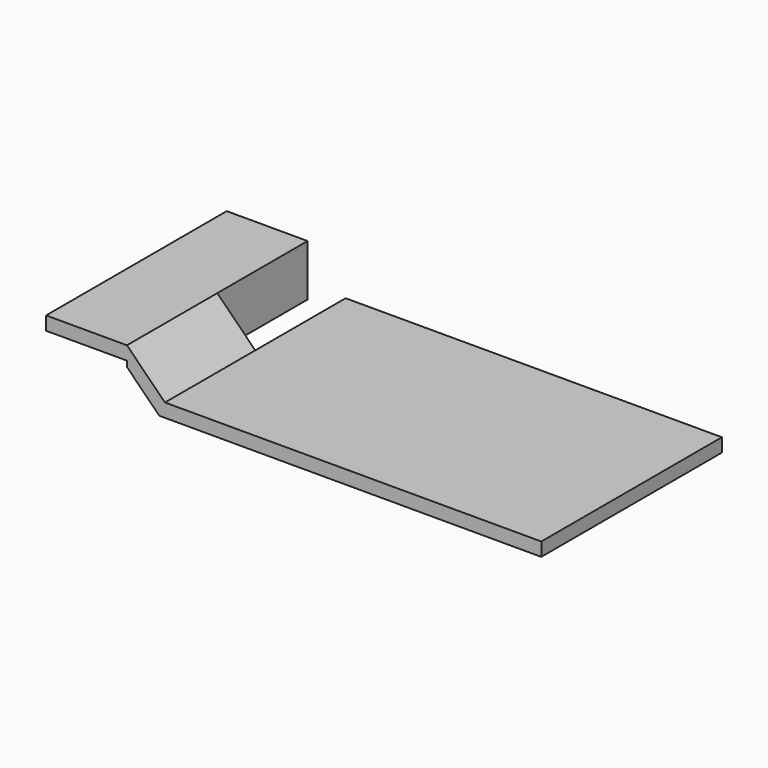
from build123d import *

# Parameters (mm, degrees)
F0_W          = 500
F0_H          = 18
F1_DEPTH      = 150
F1_DEPTH_BACK = 150
F2_DEPTH      = 150
F3_DEPTH      = 150
F3_DEPTH_BACK = 150
F4_DEPTH      = 150
F4_DEPTH_BACK = 50
F5_R          = 4
F6_DEPTH      = 100
F7_W          = 5
F7_H          = 12
F8_DEPTH      = 16


with BuildPart() as f1:
    # F0 (on Front) → F1 (new body, two sides)
    with BuildSketch(Plane.XZ) as f1_sk:
        with Locations((101.0303625649, 22.4941878617)):
            Rectangle(F0_W, F0_H)
    extrude(amount=-F1_DEPTH)
    extrude(f1_sk.sketch, amount=F1_DEPTH_BACK)

    # F0 (on Front) → F2 (join)
    with BuildSketch(Plane.XZ):
        Polygon((-148.9696374351, 13.4941878617), (-148.9696374351, 31.4941878617), (-199.4696374351, 81.9941878617), (-199.4696374351, 63.9941878617), (-199.4696374351, 56.538343739), (-156.4254815578, 13.4941878617), align=None)
    extrude(amount=F2_DEPTH)

    # F0 (on Front) → F3 (join, two sides)
    with BuildSketch(Plane.XZ) as f3_sk:
        Polygon((-199.4696374351, 63.9941878617), (-199.4696374351, 81.9941878617), (-306.9254815578, 81.9941878617), (-306.9254815578, 63.9941878617), (-216.3087427616, 63.9941878617), (-206.9254815578, 63.9941878617), align=None)
    extrude(amount=F3_DEPTH)
    extrude(f3_sk.sketch, amount=-F3_DEPTH_BACK)

    # F0 (on Front) → F4 (join, two sides)
    with BuildSketch(Plane.XZ) as f4_sk:
        Polygon((-199.4696374351, 13.4941878617), (-199.4696374351, 56.538343739), (-206.9254815578, 63.9941878617), (-216.3087427616, 63.9941878617), (-216.3087427616, 13.4941878617), align=None)
        Polygon((-199.4696374351, 56.538343739), (-199.4696374351, 63.9941878617), (-206.9254815578, 63.9941878617), align=None)
    extrude(amount=-F4_DEPTH)
    extrude(f4_sk.sketch, amount=F4_DEPTH_BACK)

    # F5 (on face) → F6 (cut)
    with BuildSketch(Plane(origin=(-216.3087427616, 0, 0), x_dir=(0, -1, 0), z_dir=(-1, 0, 0))):
        with Locations((10, 20.4941878617)):
            Circle(F5_R)
    extrude(amount=-F6_DEPTH, mode=Mode.SUBTRACT)

    # F7 (on face) → F8 (cut)
    with BuildSketch(Plane(origin=(0, 0, 13.4941878617), x_dir=(1, 0, 0), z_dir=(0, 0, -1))):
        with Locations((-138.9254815578, 10)):
            Rectangle(F7_W, F7_H)
    extrude(amount=-F8_DEPTH, mode=Mode.SUBTRACT)


solid = f1.part
